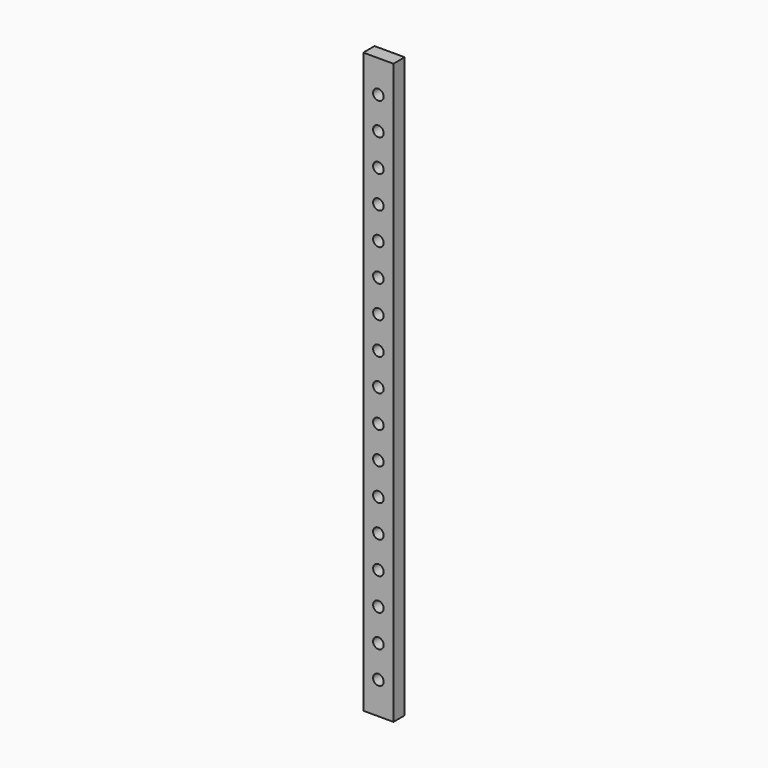
from build123d import *

# Parameters (mm, degrees)
F0_W     = 95.25
F0_H     = 1828.8
F0_R     = 16.66875
F1_DEPTH = 44.45


with BuildPart() as f1:
    # F0 (on Front) → F1 (new body)
    with BuildSketch(Plane.XZ):
        with Locations((47.625, 914.4)):
            Rectangle(F0_W, F0_H)
        with Locations((47.625, 101.6)):
            Circle(F0_R, mode=Mode.SUBTRACT)
        with Locations((47.625, 203.2)):
            Circle(F0_R, mode=Mode.SUBTRACT)
        with Locations((47.625, 304.8)):
            Circle(F0_R, mode=Mode.SUBTRACT)
        with Locations((47.625, 406.4)):
            Circle(F0_R, mode=Mode.SUBTRACT)
        with Locations((47.625, 508)):
            Circle(F0_R, mode=Mode.SUBTRACT)
        with Locations((47.625, 609.6)):
            Circle(F0_R, mode=Mode.SUBTRACT)
        with Locations((47.625, 711.2)):
            Circle(F0_R, mode=Mode.SUBTRACT)
        with Locations((47.625, 812.8)):
            Circle(F0_R, mode=Mode.SUBTRACT)
        with Locations((47.625, 914.4)):
            Circle(F0_R, mode=Mode.SUBTRACT)
        with Locations((47.625, 1016)):
            Circle(F0_R, mode=Mode.SUBTRACT)
        with Locations((47.625, 1117.6)):
            Circle(F0_R, mode=Mode.SUBTRACT)
        with Locations((47.625, 1219.2)):
            Circle(F0_R, mode=Mode.SUBTRACT)
        with Locations((47.625, 1320.8)):
            Circle(F0_R, mode=Mode.SUBTRACT)
        with Locations((47.625, 1422.4)):
            Circle(F0_R, mode=Mode.SUBTRACT)
        with Locations((47.625, 1524)):
            Circle(F0_R, mode=Mode.SUBTRACT)
        with Locations((47.625, 1625.6)):
            Circle(F0_R, mode=Mode.SUBTRACT)
        with Locations((47.625, 1727.2)):
            Circle(F0_R, mode=Mode.SUBTRACT)
    extrude(amount=F1_DEPTH)


solid = f1.part
